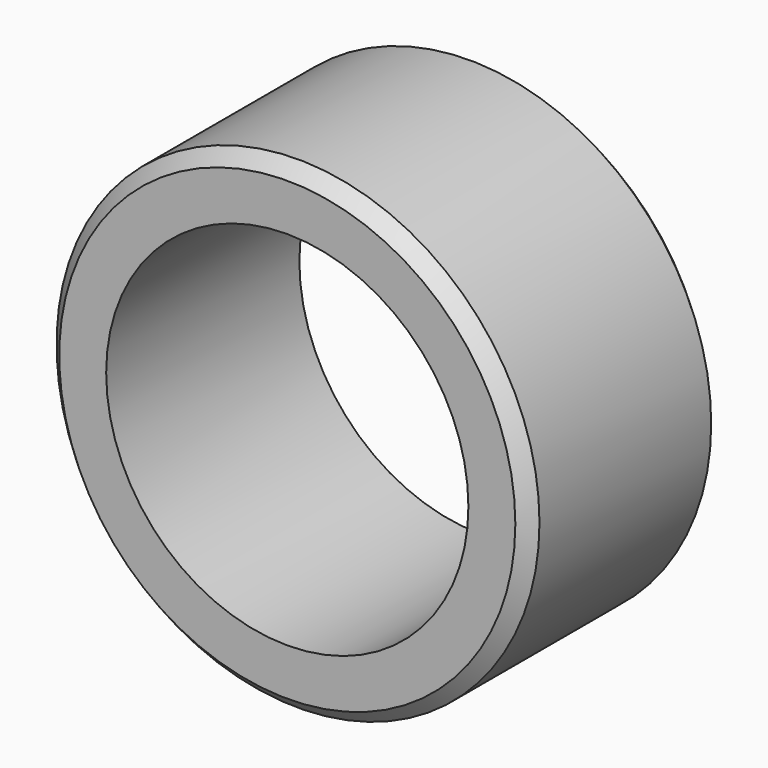
from build123d import *

# Parameters (mm, degrees)
F0_R     = 360
F0_R_2   = 270
F1_DEPTH = 180
F2_SIZE  = 20
F3_SIZE  = 20


with BuildPart() as f1:
    # F0 (on Front) → F1 (new body, symmetric)
    with BuildSketch(Plane.XZ):
        Circle(F0_R)
        Circle(F0_R_2, mode=Mode.SUBTRACT)
    extrude(amount=F1_DEPTH, both=True)

    # F2
    f2_edges = [f1.edges().sort_by_distance(p)[0] for p in [
        (-360, -180, 0),
    ]]
    chamfer(f2_edges, length=F2_SIZE)

    # F3
    f3_edges = [f1.edges().sort_by_distance(p)[0] for p in [
        (-360, 180, 0),
    ]]
    chamfer(f3_edges, length=F3_SIZE)


solid = f1.part
